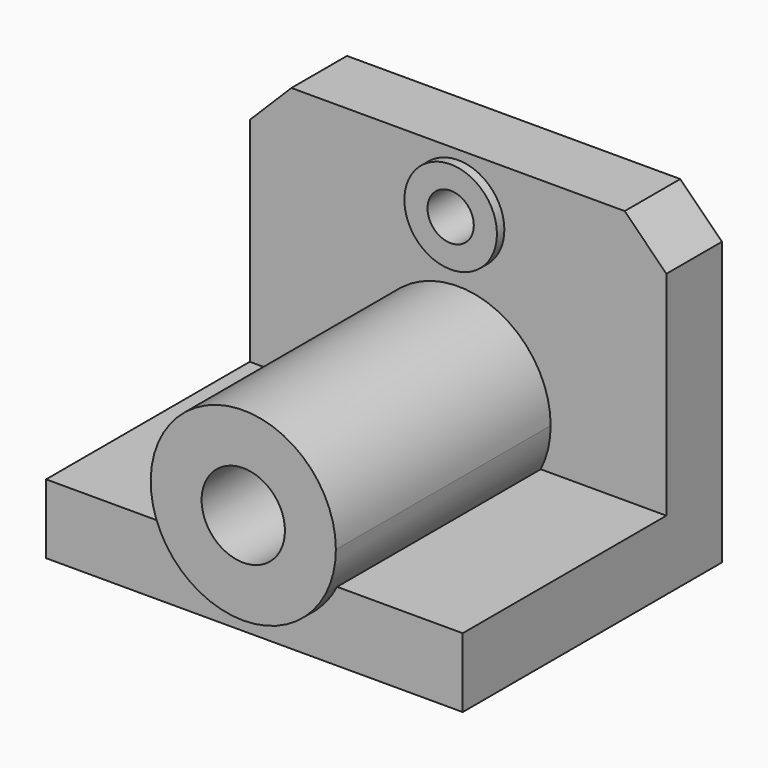
from build123d import *

# Parameters (mm, degrees)
F1_DEPTH = 70
F0_R     = 9
F2_DEPTH = 73
F0_R_2   = 10
F3_DEPTH = 15
F0_R_3   = 5
F4_DEPTH = 17
F5_SIZE2 = 9
F5_SIZE  = 9


with BuildPart() as f1:
    # F0 (on Front) → F1 (new body)
    with BuildSketch(Plane.XZ):
        with BuildLine():
            Line((0, 15), (0, 0))
            Line((0, 0), (90, 0))
            Line((90, 0), (90, 15))
            Line((90, 15), (62.860571, 15))
            ThreePointArc((62.860571, 15), (45, 4), (27.139429, 15))
            Line((27.139429, 15), (0, 15))
        make_face()
    extrude(amount=F1_DEPTH)

    # F0 (on Front) → F2 (join)
    with BuildSketch(Plane.XZ):
        with BuildLine():
            ThreePointArc((65, 24), (40.374604, 43.457793), (27.139429, 15))
            ThreePointArc((27.139429, 15), (45, 4), (62.860571, 15))
            ThreePointArc((62.860571, 15), (64.457793, 19.374604), (65, 24))
        make_face()
        with Locations((45, 24)):
            Circle(F0_R, mode=Mode.SUBTRACT)
    extrude(amount=F2_DEPTH)

    # F0 (on Front) → F3 (join)
    with BuildSketch(Plane.XZ):
        with BuildLine():
            Line((0, 70), (0, 15))
            Line((0, 15), (27.139429, 15))
            ThreePointArc((27.139429, 15), (40.374604, 43.457793), (65, 24))
            ThreePointArc((65, 24), (64.457793, 19.374604), (62.860571, 15))
            Line((62.860571, 15), (90, 15))
            Line((90, 15), (90, 70))
            Line((90, 70), (0, 70))
        make_face()
        with Locations((45, 58)):
            Circle(F0_R_2, mode=Mode.SUBTRACT)
    extrude(amount=F3_DEPTH)

    # F0 (on Front) → F4 (join)
    with BuildSketch(Plane.XZ):
        with Locations((45, 58)):
            Circle(F0_R_2)
        with Locations((45, 58)):
            Circle(F0_R_3, mode=Mode.SUBTRACT)
    extrude(amount=F4_DEPTH)

    # F5
    f5_edges = [f1.edges().sort_by_distance(p)[0] for p in [
        (0, -7.5, 70),
        (90, -7.5, 70),
    ]]
    chamfer(f5_edges, length=F5_SIZE, length2=F5_SIZE2)


solid = f1.part
